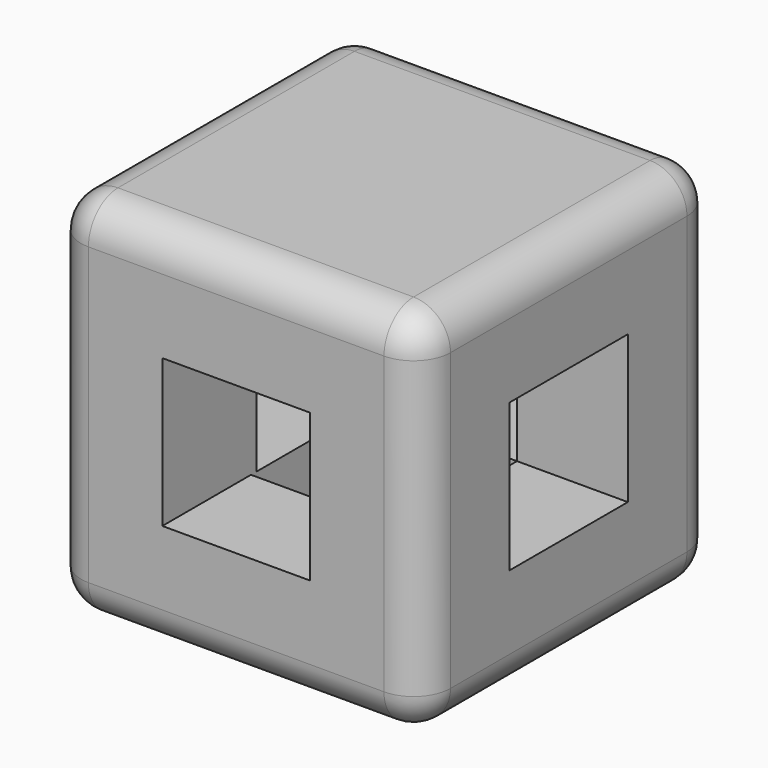
from build123d import *

# Parameters (mm, degrees)
F0_W      = 50
F0_H      = 50
F1_DEPTH  = 25
F2_W      = 20
F2_H      = 20
F3_DEPTH  = 50
F4_W      = 20
F4_H      = 20
F5_DEPTH  = 15
F6_W      = 18.1838367134
F6_H      = 20
F7_DEPTH  = 15
F8_R      = 5
F9_W      = 20
F9_H      = 20
F10_DEPTH = 15


with BuildPart() as f1:
    # F0 (on Front) → F1 (new body, symmetric)
    with BuildSketch(Plane.XZ):
        Rectangle(F0_W, F0_H)
    extrude(amount=F1_DEPTH, both=True)

    # F2 (on face) → F3 (cut, through all)
    with BuildSketch(Plane.XZ.offset(25)):
        Rectangle(F2_W, F2_H)
    extrude(amount=-F3_DEPTH, mode=Mode.SUBTRACT)

    # F4 (on face) → F5 (cut, through all)
    with BuildSketch(Plane.YZ.offset(25)):
        Rectangle(F4_W, F4_H)
    extrude(amount=-F5_DEPTH, mode=Mode.SUBTRACT)

    # F6 (on face) → F7 (cut, through all)
    with BuildSketch(Plane(origin=(-25, 0, 0), x_dir=(0, -1, 0), z_dir=(-1, 0, 0))):
        Rectangle(F6_W, F6_H)
    extrude(amount=-F7_DEPTH, mode=Mode.SUBTRACT)

    # F8
    f8_edges = [f1.edges().sort_by_distance(p)[0] for p in [
        (0, -25, -25),
        (25, 0, -25),
        (0, 25, -25),
        (-25, 0, -25),
        (-25, -25, 0),
        (-25, 25, 0),
        (-25, 0, 25),
        (25, 0, 25),
        (0, 25, 25),
        (0, -25, 25),
        (25, -25, 0),
        (25, 25, 0),
    ]]
    fillet(f8_edges, radius=F8_R)

    # F9 (on face) → F10 (cut, through all)
    with BuildSketch(Plane(origin=(0, 0, -25), x_dir=(1, 0, 0), z_dir=(0, 0, -1))):
        Rectangle(F9_W, F9_H)
    extrude(amount=-F10_DEPTH, mode=Mode.SUBTRACT)


solid = f1.part
